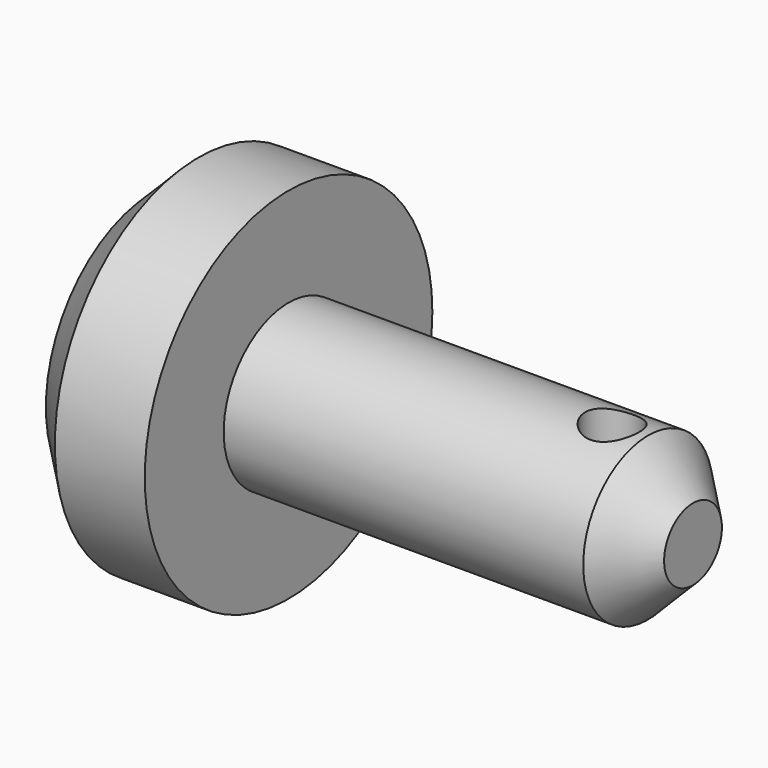
from build123d import *

# Parameters (mm, degrees)
F2_SIZE2      = 10
F2_SIZE       = 10
F3_R          = 6
F4_DEPTH      = 40.001
F4_DEPTH_BACK = 40.001


with BuildPart() as f1:
    # F0 (on Top) → F1 (revolve)
    with BuildSketch(Plane.XY):
        Polygon((0, 40), (0, 0), (120, 0), (120, 18.0392161204), (30, 18.0392161204), (30, 40), align=None)
    revolve(axis=Axis((60, 0, 0), (-1, 0, 0)))

    # F2
    f2_edges = [f1.edges().sort_by_distance(p)[0] for p in [
        (0, -40, 0),
        (120, -18.039216, 0),
    ]]
    chamfer(f2_edges, length=F2_SIZE, length2=F2_SIZE2)

    # F3 (on Top) → F4 (cut, two sides)
    with BuildSketch(Plane.XY) as f4_sk:
        with Locations((102, 0)):
            Circle(F3_R)
    extrude(amount=-F4_DEPTH, mode=Mode.SUBTRACT)
    extrude(f4_sk.sketch, amount=F4_DEPTH_BACK, mode=Mode.SUBTRACT)


solid = f1.part
